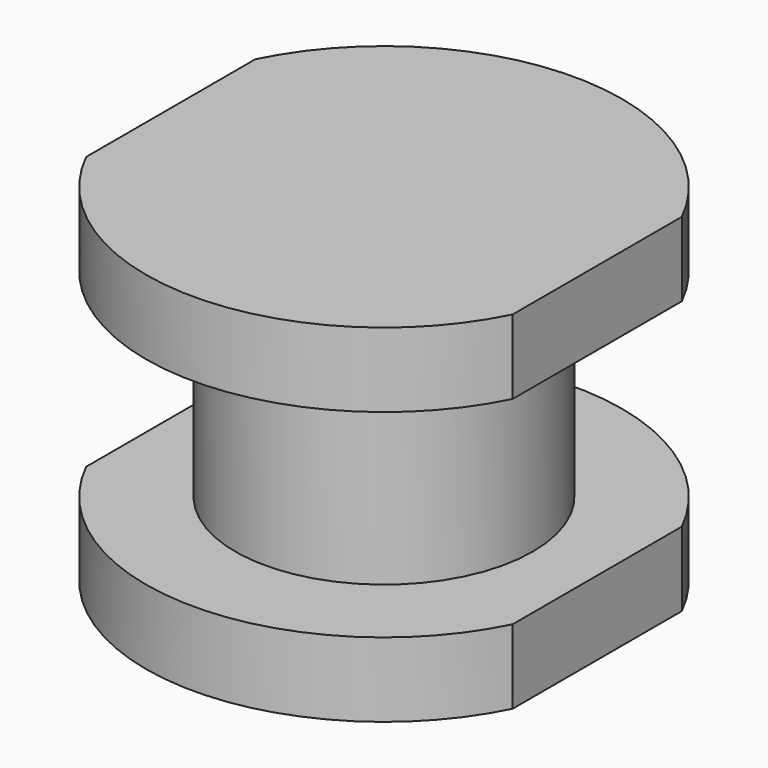
from build123d import *

# Parameters (mm, degrees)
PAD_DEPTH     = 3.5
SKETCH001_R   = 2.75
SKETCH001_R_2 = 1.5
POCKET_DEPTH  = 1


with BuildPart() as part:
    # Sketch → Pad (new body)
    with BuildSketch(Plane.XY):
        with BuildLine():
            ThreePointArc((2.15, 1.066536), (0, 2.4), (-2.15, 1.066536))
            Line((-2.15, 1.066536), (-2.15, -1.066536))
            ThreePointArc((-2.15, -1.066536), (0, -2.4), (2.15, -1.066536))
            Line((2.15, -1.066536), (2.15, 1.066536))
        make_face()
    extrude(amount=PAD_DEPTH)

    # Sketch001 (on DatumPlane) → Pocket (cut, symmetric)
    with BuildSketch(Plane.XY.offset(1.75)):
        Circle(SKETCH001_R)
        Circle(SKETCH001_R_2, mode=Mode.SUBTRACT)
    extrude(amount=POCKET_DEPTH, both=True, mode=Mode.SUBTRACT)


solid = part.part
